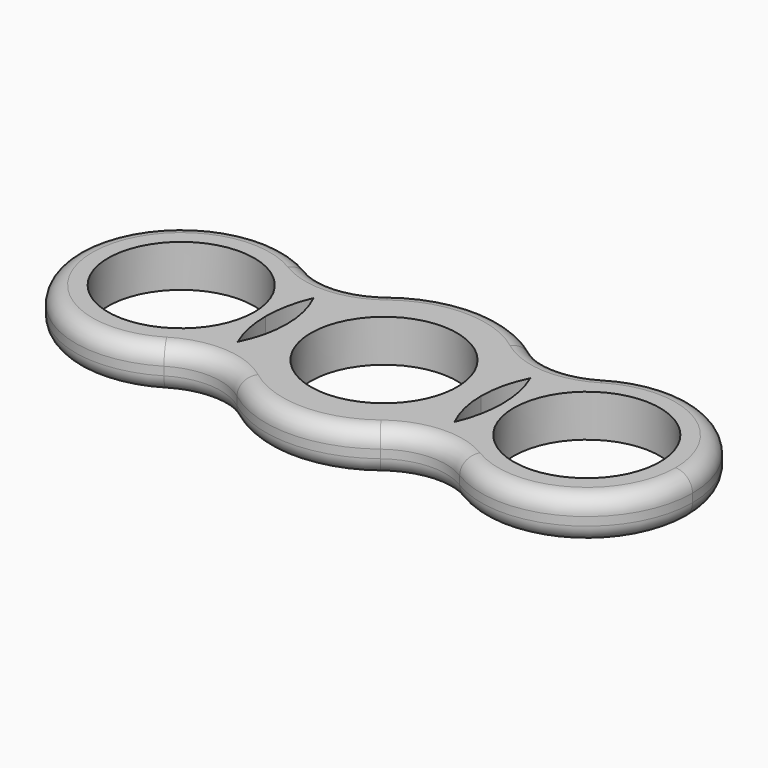
from build123d import *

# Parameters (mm, degrees)
F0_R     = 10.9855
F1_DEPTH = 6.35
F2_R     = 2.54


with BuildPart() as f1:
    # F0 (on Top) → F1 (new body)
    with BuildSketch(Plane.XY):
        with BuildLine():
            ThreePointArc((-16.29171875, -7.1209760687), (-17.4039529903, -3.6374194579), (-17.78, 0))
            ThreePointArc((-17.78, 0), (-17.4039529903, 3.6374194579), (-16.29171875, 7.1209760687))
            ThreePointArc((-16.29171875, 7.1209760687), (-18.8020162617, 10.7536189633), (-22.2158041159, 13.554286827))
            ThreePointArc((-22.2158041159, 13.554286827), (-46.355, 0), (-22.2158041159, -13.554286827))
            ThreePointArc((-22.2158041159, -13.554286827), (-18.8020162617, -10.7536189633), (-16.29171875, -7.1209760687))
        make_face()
        with Locations((-30.48, 0)):
            Circle(F0_R, mode=Mode.SUBTRACT)
        with BuildLine():
            ThreePointArc((-22.2158041159, 13.554286827), (-18.8020162617, 10.7536189633), (-16.29171875, 7.1209760687))
            ThreePointArc((-16.29171875, 7.1209760687), (-13.9800556545, 10.9857382044), (-10.7715482955, 14.1457466158))
            ThreePointArc((-10.7715482955, 14.1457466158), (-16.4023314736, 12.0825720001), (-22.2158041159, 13.554286827))
        make_face()
        with BuildLine():
            ThreePointArc((-10.7715482955, -14.1457466158), (-13.9800556545, -10.9857382044), (-16.29171875, -7.1209760687))
            ThreePointArc((-16.29171875, -7.1209760687), (-18.8020162617, -10.7536189633), (-22.2158041159, -13.554286827))
            ThreePointArc((-22.2158041159, -13.554286827), (-16.4023314736, -12.0825720001), (-10.7715482955, -14.1457466158))
        make_face()
        with BuildLine():
            Line((14.605, 0), (10.9855, 0))
            ThreePointArc((10.9855, 0), (0, -10.9855), (-10.9855, 0))
            Line((-10.9855, 0), (-14.605, 0))
            ThreePointArc((-14.605, 0), (-15.032434013, -3.6590067065), (-16.29171875, -7.1209760687))
            ThreePointArc((-16.29171875, -7.1209760687), (-13.9800556545, -10.9857382044), (-10.7715482955, -14.1457466158))
            ThreePointArc((-10.7715482955, -14.1457466158), (0, -17.78), (10.7715482955, -14.1457466158))
            ThreePointArc((10.7715482955, -14.1457466158), (13.9800556545, -10.9857382044), (16.29171875, -7.1209760687))
            ThreePointArc((16.29171875, -7.1209760687), (15.032434013, -3.6590067065), (14.605, 0))
        make_face()
        with BuildLine():
            ThreePointArc((-10.9855, 0), (0, 10.9855), (10.9855, 0))
            Line((10.9855, 0), (14.605, 0))
            ThreePointArc((14.605, 0), (15.032434013, 3.6590067065), (16.29171875, 7.1209760687))
            ThreePointArc((16.29171875, 7.1209760687), (13.9800556545, 10.9857382044), (10.7715482955, 14.1457466158))
            ThreePointArc((10.7715482955, 14.1457466158), (0, 17.78), (-10.7715482955, 14.1457466158))
            ThreePointArc((-10.7715482955, 14.1457466158), (-13.9800556545, 10.9857382044), (-16.29171875, 7.1209760687))
            ThreePointArc((-16.29171875, 7.1209760687), (-15.032434013, 3.6590067065), (-14.605, 0))
            Line((-14.605, 0), (-10.9855, 0))
        make_face()
        with BuildLine():
            ThreePointArc((10.7715482955, 14.1457466158), (13.9800556545, 10.9857382044), (16.29171875, 7.1209760687))
            ThreePointArc((16.29171875, 7.1209760687), (18.8020162617, 10.7536189633), (22.2158041159, 13.554286827))
            ThreePointArc((22.2158041159, 13.554286827), (16.4023314736, 12.0825720001), (10.7715482955, 14.1457466158))
        make_face()
        with BuildLine():
            ThreePointArc((22.2158041159, -13.554286827), (18.8020162617, -10.7536189633), (16.29171875, -7.1209760687))
            ThreePointArc((16.29171875, -7.1209760687), (13.9800556545, -10.9857382044), (10.7715482955, -14.1457466158))
            ThreePointArc((10.7715482955, -14.1457466158), (16.4023314736, -12.0825720001), (22.2158041159, -13.554286827))
        make_face()
        with BuildLine():
            ThreePointArc((16.29171875, 7.1209760687), (17.4039529903, 3.6374194579), (17.78, 0))
            ThreePointArc((17.78, 0), (17.4039529903, -3.6374194579), (16.29171875, -7.1209760687))
            ThreePointArc((16.29171875, -7.1209760687), (18.8020162617, -10.7536189633), (22.2158041159, -13.554286827))
            ThreePointArc((22.2158041159, -13.554286827), (38.2524357617, -13.8421409952), (46.355, 0))
            ThreePointArc((46.355, 0), (38.2524357617, 13.8421409952), (22.2158041159, 13.554286827))
            ThreePointArc((22.2158041159, 13.554286827), (18.8020162617, 10.7536189633), (16.29171875, 7.1209760687))
        make_face()
        with BuildLine():
            ThreePointArc((41.4655, 0), (30.48, -10.9855), (19.4945, 0))
            ThreePointArc((19.4945, 0), (30.48, 10.9855), (41.4655, 0))
        make_face(mode=Mode.SUBTRACT)
    extrude(amount=F1_DEPTH)

    # F2
    f2_edges = [f1.edges().sort_by_distance(p)[0] for p in [
        (-46.355, 0, 6.35),
        (-16.402331, 12.082572, 6.35),
        (0, 17.78, 6.35),
        (16.402331, 12.082572, 6.35),
        (46.355, 0, 6.35),
        (16.402331, -12.082572, 6.35),
        (0, -17.78, 6.35),
        (-16.402331, -12.082572, 6.35),
        (-46.355, 0, 0),
        (-16.402331, -12.082572, 0),
        (0, -17.78, 0),
        (-16.402331, 12.082572, 0),
        (0, 17.78, 0),
        (16.402331, -12.082572, 0),
        (46.355, 0, 0),
        (16.402331, 12.082572, 0),
    ]]
    fillet(f2_edges, radius=F2_R)


solid = f1.part
